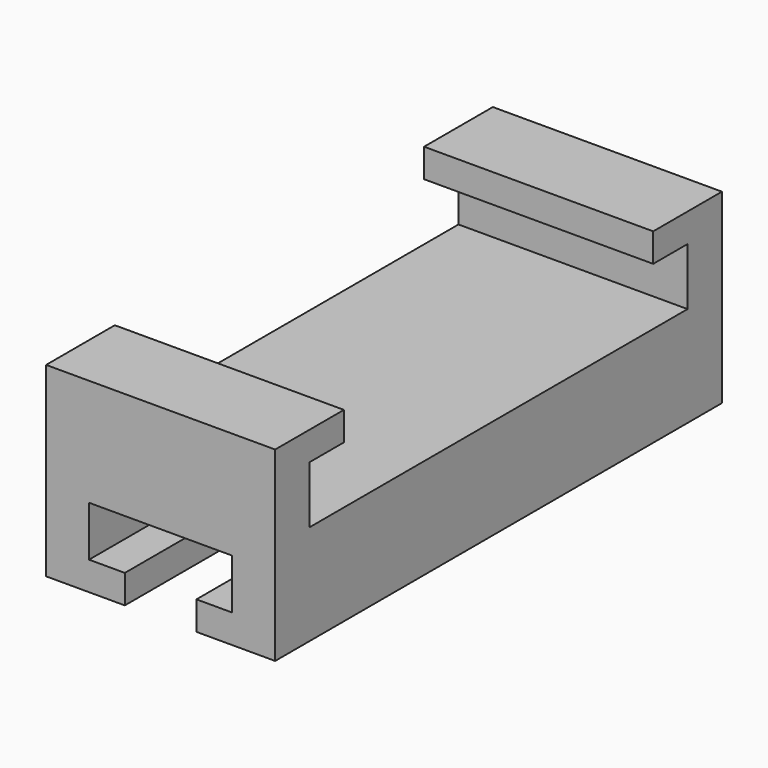
from build123d import *

# Parameters (mm, degrees)
SKETCH_W        = 16
SKETCH_H        = 39
PAD_DEPTH       = 13
POCKET_DEPTH    = 39.001
POCKET001_DEPTH = 16.001


with BuildPart() as part:
    # Sketch → Pad (new body)
    with BuildSketch(Plane.XY):
        Rectangle(SKETCH_W, SKETCH_H)
    extrude(amount=PAD_DEPTH)

    # Sketch001 (on Face1 of Pad) → Pocket (cut, through all)
    with BuildSketch(Plane(origin=(0, 19.5, 0), x_dir=(-1, 0, 0), z_dir=(0, 1, 0))):
        Polygon((-5, 5.5), (5, 5.5), (5, 2), (2.5, 2), (2.5, 0), (-2.5, 0), (-2.5, 2), (-5, 2), align=None)
    extrude(amount=-POCKET_DEPTH, mode=Mode.SUBTRACT)

    # Sketch002 (on Face11 of Pocket) → Pocket001 (cut, through all)
    with BuildSketch(Plane.YZ.offset(8)):
        Polygon((-13.5, 13), (-13.5, 11), (-16.5, 11), (-16.5, 7), (16.5, 7), (16.5, 11), (13.5, 11), (13.5, 13), align=None)
    extrude(amount=-POCKET001_DEPTH, mode=Mode.SUBTRACT)


solid = part.part
